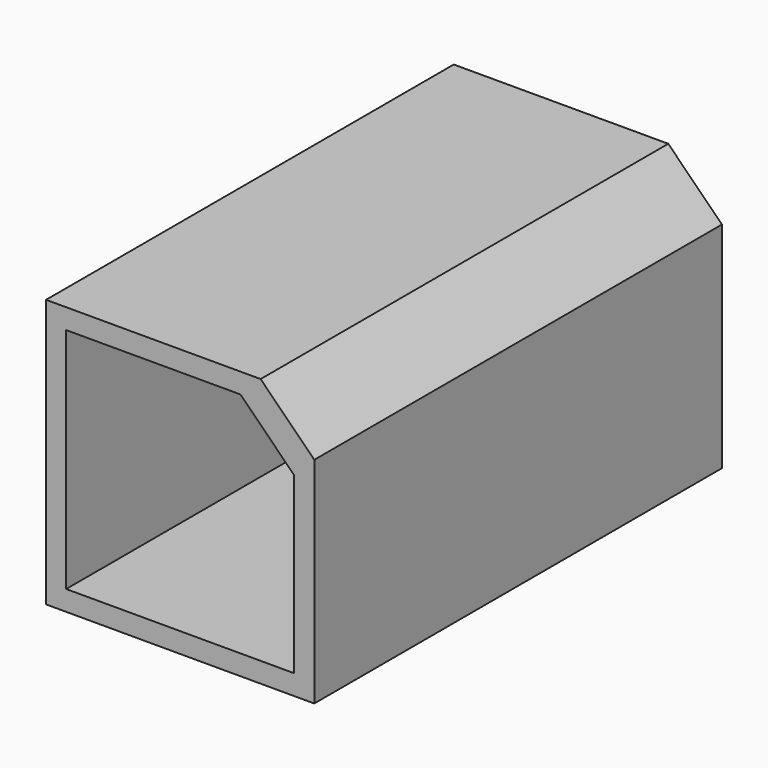
from build123d import *

# Parameters (mm, degrees)
F0_W     = 20
F0_H     = 20
F0_W_2   = 17
F0_H_2   = 17
F1_DEPTH = 38
F2_SIZE  = 4
F4_DEPTH = 5


with BuildPart() as f1:
    # F0 (on Front) → F1 (new body)
    with BuildSketch(Plane.XZ):
        with Locations((10, 10)):
            Rectangle(F0_W, F0_H)
        with Locations((10, 10)):
            Rectangle(F0_W_2, F0_H_2, mode=Mode.SUBTRACT)
    extrude(amount=F1_DEPTH)

    # F2
    f2_edges = [f1.edges().sort_by_distance(p)[0] for p in [
        (20, -19, 20),
        (18.5, -19, 18.5),
    ]]
    chamfer(f2_edges, length=F2_SIZE)

    # F1_face (on face) + F3 (on Front) → F4 (cut)
    with BuildSketch(Plane(origin=(9.891892, -38, 9.891892), x_dir=(1, 0, 0), z_dir=(0, -1, 0))):
        Polygon((10.108108, -9.891892), (10.108108, 6.108108), (6.108108, 10.108108), (-9.891892, 10.108108), (-9.891892, -9.891892), align=None)
        Polygon((-8.391892, 8.608108), (4.608108, 8.608108), (8.608108, 4.608108), (8.608108, -8.391892), (-8.391892, -8.391892), align=None, mode=Mode.SUBTRACT)
    with BuildSketch(Plane.XZ):
        Polygon((0, 13.5), (0, 0), (13.5, 0), (13.5, 1.5), (1.5, 1.5), (1.5, 13.5), align=None)
    extrude(amount=F4_DEPTH, mode=Mode.SUBTRACT)


solid = f1.part
